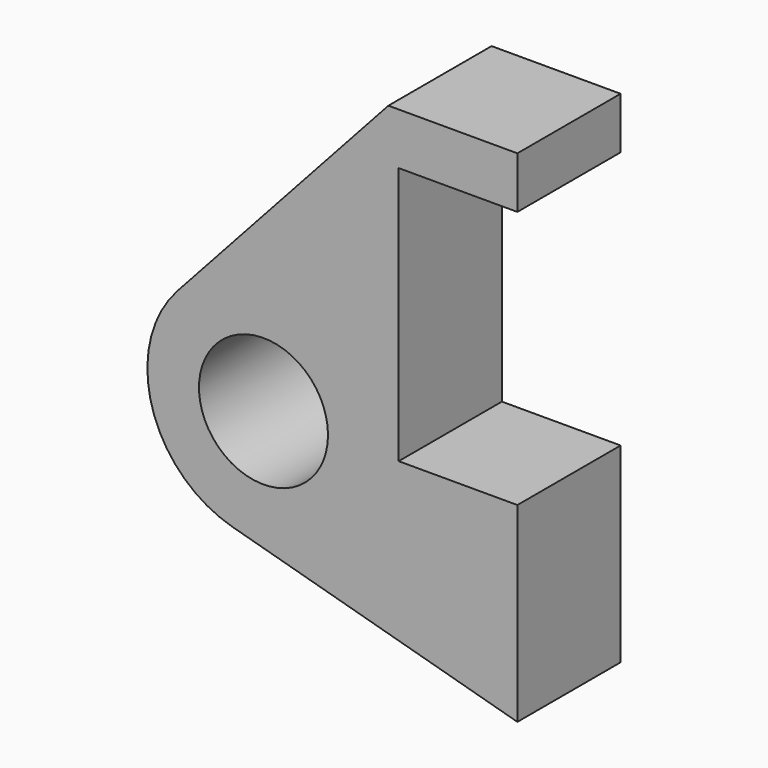
from build123d import *

# Parameters (mm, degrees)
F0_R     = 3.175
F1_DEPTH = 3.175


with BuildPart() as f1:
    # F0 (on Front) → F1 (new body, symmetric)
    with BuildSketch(Plane.XZ):
        with BuildLine():
            Line((-0.9398, 0), (0, 0))
            Line((0, 0), (0, 12.7))
            Line((0, 12.7), (5.842, 12.7))
            Line((5.842, 12.7), (5.842, 15.24))
            Line((5.842, 15.24), (-0.508, 15.24))
            Line((-0.508, 15.24), (-10.88063, 3.847543))
            ThreePointArc((-10.88063, 3.847543), (-4.591961, 5.329721), (-0.9398, 0))
        make_face()
        with BuildLine():
            Line((5.842, 0), (0, 0))
            Line((0, 0), (-0.9398, 0))
            ThreePointArc((-0.9398, 0), (-3.195791, -4.549339), (-8.182663, -5.506983))
            Line((-8.182663, -5.506983), (5.842, -9.398))
            Line((5.842, -9.398), (5.842, 0))
        make_face()
        with BuildLine():
            ThreePointArc((-8.182663, -5.506983), (-3.195791, -4.549339), (-0.9398, 0))
            ThreePointArc((-0.9398, 0), (-4.591961, 5.329721), (-10.88063, 3.847543))
            ThreePointArc((-10.88063, 3.847543), (-12.145978, -1.583727), (-8.182663, -5.506983))
        make_face()
        with Locations((-6.6548, 0)):
            Circle(F0_R, mode=Mode.SUBTRACT)
    extrude(amount=F1_DEPTH, both=True)


solid = f1.part
